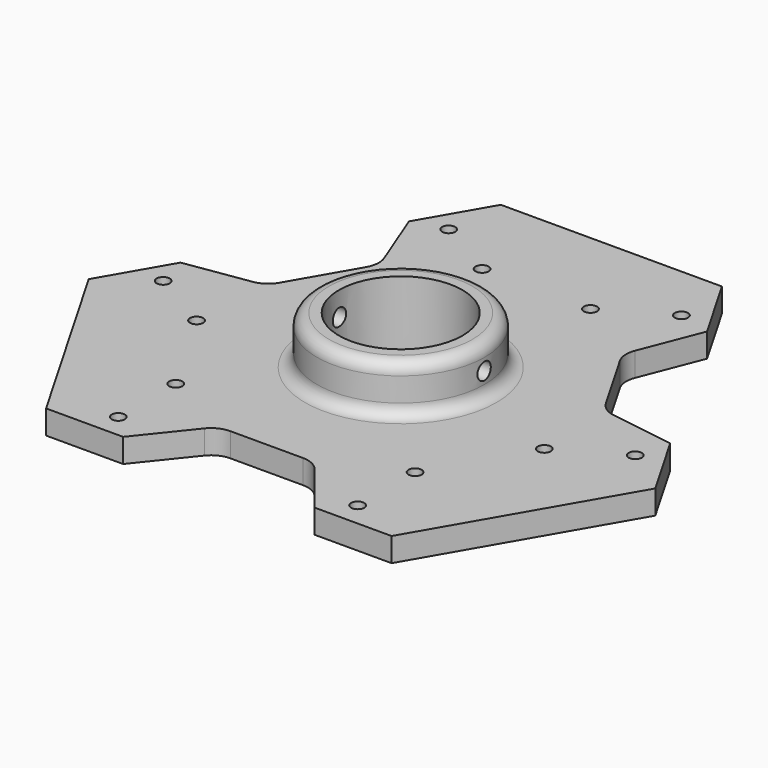
from build123d import *

# Parameters (mm, degrees)
SKETCH011_R        = 25.8
PAD007_DEPTH       = 10
SKETCH012_R        = 2.75
POCKET003_DEPTH    = 636.6056068561
POLARPATTERN_COUNT = 3
SKETCH_R           = 35
SKETCH_R_2         = 25.8
PAD_DEPTH          = 20
FILLET_R           = 5
SKETCH013_R        = 3.5
POCKET_DEPTH       = 118.3578051839
POCKET_DEPTH_BACK  = 118.3578051839
FILLET001_R        = 10


with BuildPart() as part:
    # Sketch011 → Pad007 (new body)
    with BuildSketch(Plane.XY):
        Polygon((-46.1880215352, 110), (46.1880215352, 110), (118.3568051839, -15), (72.1687836487, -95), (-72.1687836487, -95), (-118.3568051839, -15), align=None)
        Circle(SKETCH011_R, mode=Mode.SUBTRACT)
    extrude(amount=PAD007_DEPTH)

    # Sketch012 → Pocket003 (cut, through all)
    with BuildSketch(Plane.XY):
        with Locations((-48.6121593217, 85.8012701892)):
            Circle(SKETCH012_R)
        with Locations((-98.6121593217, -0.8012701892)):
            Circle(SKETCH012_R)
        with Locations((-22.6313972081, 70.8012701892)):
            Circle(SKETCH012_R)
        with Locations((-72.6313972081, -15.8012701892)):
            Circle(SKETCH012_R)
        Polygon((-62.2724133595, 82.1410161514), (-50.6217782649, 52.3205080757), (-70.6217782649, 17.6794919243), (-102.2724133595, 12.8589838486), align=None)
    pocket003 = extrude(amount=POCKET003_DEPTH, mode=Mode.SUBTRACT)

    # PolarPattern: Pocket003 ×3 about axis
    polarpattern_axis = Axis((0, 0, 0), (0, 0, 1))
    for i in range(1, POLARPATTERN_COUNT):
        add(pocket003.rotate(polarpattern_axis, i * 360 / POLARPATTERN_COUNT), mode=Mode.SUBTRACT)

    # Sketch (on Face5 of PolarPattern) → Pad (join)
    with BuildSketch(Plane.XY.offset(10)):
        Circle(SKETCH_R)
        Circle(SKETCH_R_2, mode=Mode.SUBTRACT)
    extrude(amount=PAD_DEPTH)

    # Fillet
    fillet_edges = [part.edges().sort_by_distance(p)[0] for p in [
        (-35, 0, 10),
        (-35, 0, 30),
    ]]
    fillet(fillet_edges, radius=FILLET_R)

    # Sketch013 (on DatumPlane) → Pocket (cut, two sides)
    with BuildSketch(Plane(origin=(0, 0, 15), x_dir=(0, 0, -1), z_dir=(1, 0, 0))) as pocket_sk:
        with Locations((-5, 0)):
            Circle(SKETCH013_R)
    extrude(amount=-POCKET_DEPTH, mode=Mode.SUBTRACT)
    extrude(pocket_sk.sketch, amount=POCKET_DEPTH_BACK, mode=Mode.SUBTRACT)

    # Fillet001
    fillet001_edges = [part.edges().sort_by_distance(p)[0] for p in [
        (20, -70, 5),
        (-20, -70, 5),
        (50.621778, 52.320508, 5),
        (70.621778, 17.679492, 5),
        (-50.621778, 52.320508, 5),
        (-70.621778, 17.679492, 5),
    ]]
    fillet(fillet001_edges, radius=FILLET001_R)


solid = part.part
